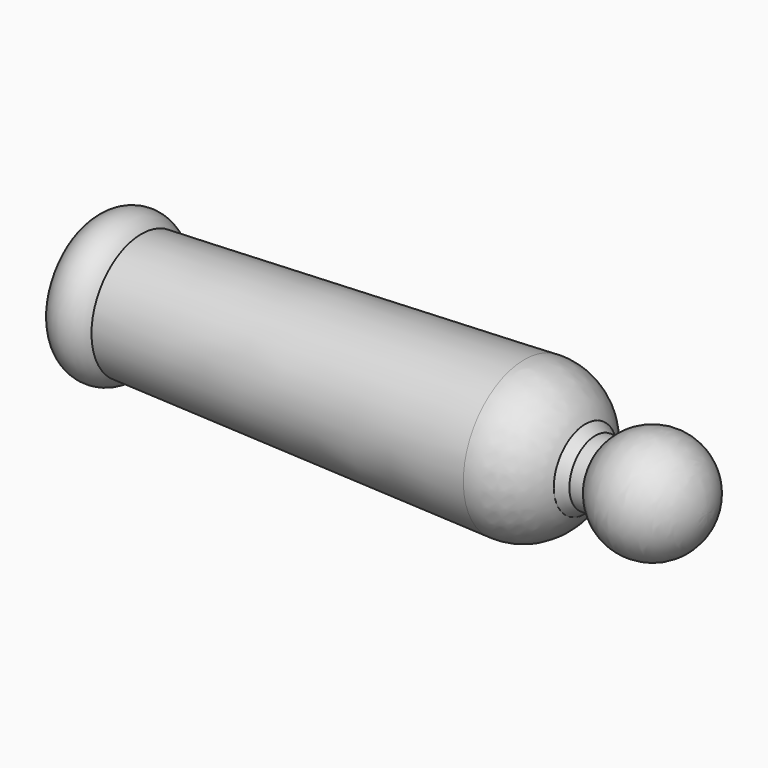
from build123d import *


with BuildPart() as f1:
    # F0 (on Front) → F1 (revolve)
    with BuildSketch(Plane.XZ):
        with BuildLine():
            Line((-48.178779, 0), (-40.178779, 0))
            Line((-40.178779, 0), (43.821221, 0))
            Line((43.821221, 0), (46.321221, 0))
            Line((46.321221, 0), (64.321221, 0))
            ThreePointArc((64.321221, 0), (57.483499, 9.486833), (46.321221, 6))
            Line((46.321221, 6), (43.821221, 6))
            Line((43.821221, 6), (41.980936, 7.278439))
            ThreePointArc((41.980936, 7.278439), (37.367955, 12.34431), (30.734845, 14.060264))
            Line((30.734845, 14.060264), (-39.811072, 11.49412))
            ThreePointArc((-39.811072, 11.49412), (-43.994925, 13.5), (-48.178779, 11.49412))
            Line((-48.178779, 11.49412), (-48.178779, 0))
        make_face()
    revolve(axis=Axis((1.821221, 0, 0), (1, 0, 0)))


solid = f1.part
